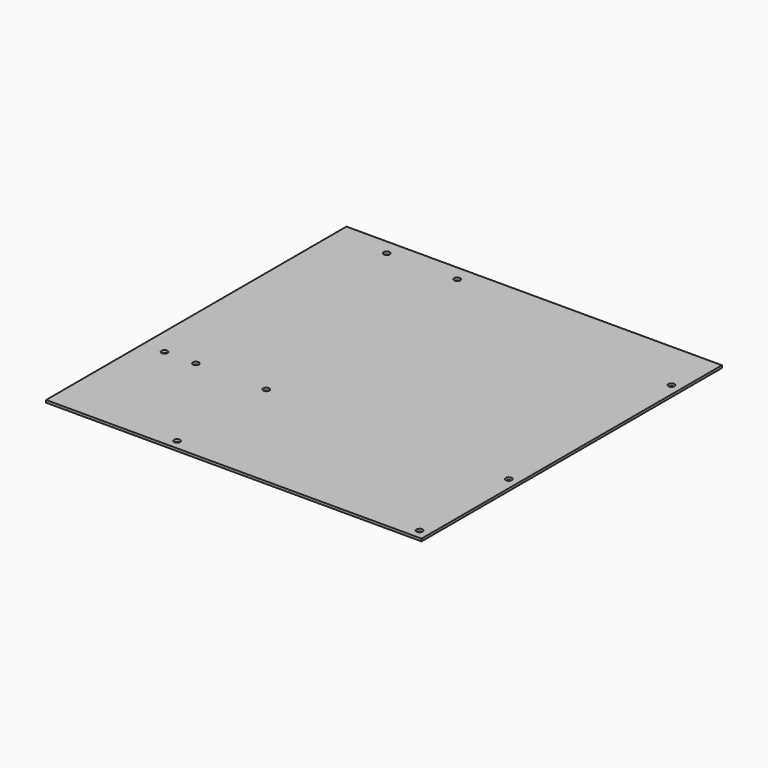
from build123d import *

# Parameters (mm, degrees)
F0_W     = 243.84
F0_H     = 243.84
F0_R     = 1.98
F1_DEPTH = 1.6


with BuildPart() as f1:
    # F0 (on Top) → F1 (new body)
    with BuildSketch(Plane.XY):
        with Locations((-3.880608, -1.168686)):
            Rectangle(F0_W, F0_H)
        with Locations((-45.790608, -116.738686)):
            Circle(F0_R, mode=Mode.SUBTRACT)
        with Locations((-111.830608, -44.348686)):
            Circle(F0_R, mode=Mode.SUBTRACT)
        with Locations((-91.510608, -44.348686)):
            Circle(F0_R, mode=Mode.SUBTRACT)
        with Locations((-45.790608, -44.348686)):
            Circle(F0_R, mode=Mode.SUBTRACT)
        with Locations((111.689392, -116.738686)):
            Circle(F0_R, mode=Mode.SUBTRACT)
        with Locations((111.689392, -44.348686)):
            Circle(F0_R, mode=Mode.SUBTRACT)
        with Locations((-91.510608, 110.591314)):
            Circle(F0_R, mode=Mode.SUBTRACT)
        with Locations((-45.790608, 110.591314)):
            Circle(F0_R, mode=Mode.SUBTRACT)
        with Locations((111.689392, 87.731314)):
            Circle(F0_R, mode=Mode.SUBTRACT)
    extrude(amount=F1_DEPTH)


solid = f1.part
